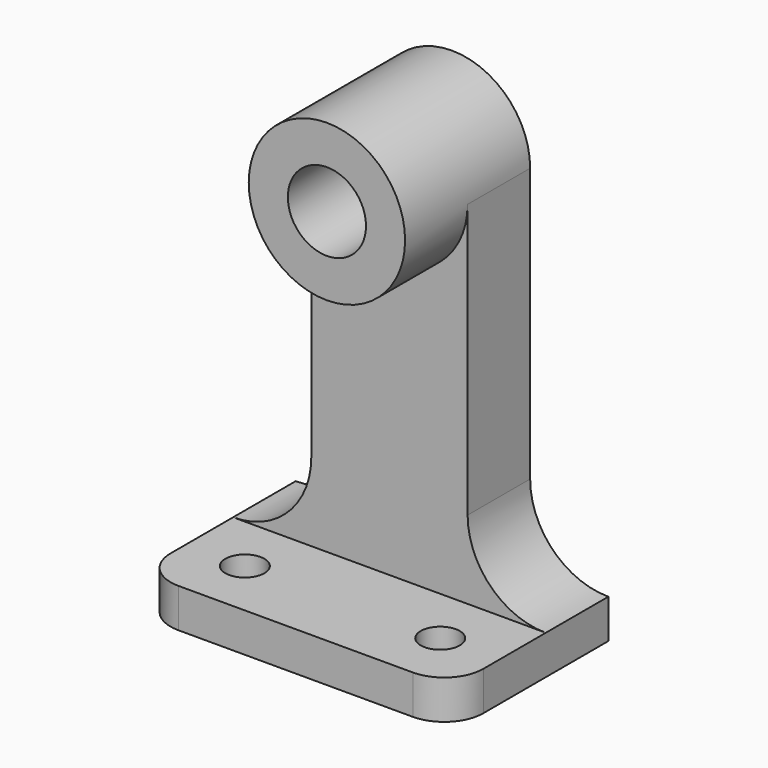
from build123d import *

# Parameters (mm, degrees)
F1_DEPTH  = 50.8
F2_W      = 12.7
F2_H      = 25.4
F3_DEPTH  = 69.85
F5_DEPTH  = 12.7
F6_DEPTH  = 25.4
F7_R      = 6.35
F8_DEPTH  = 25.4
F9_W      = 12.7
F9_H      = 12.7
F10_DEPTH = 12.7
F11_W     = 12.7
F11_H     = 12.7
F12_DEPTH = 12.7
F14_DEPTH = 25.4
F15_R     = 3.175
F16_DEPTH = 25.4
F18_DEPTH = 25.4


with BuildPart() as f1:
    # F0 (on Right) → F1 (new body)
    with BuildSketch(Plane.YZ):
        Polygon((-31.75, 0), (0, 0), (0, 76.2), (-25.4, 76.2), (-25.4, 50.8), (-12.7, 50.8), (-12.7, 6.35), (-31.75, 6.35), align=None)
    extrude(amount=F1_DEPTH)

    # F2 (on face) → F3 (cut)
    with BuildSketch(Plane.XY.offset(76.2)):
        with Locations((6.35, -12.7)):
            Rectangle(F2_W, F2_H)
        with Locations((44.45, -12.7)):
            Rectangle(F2_W, F2_H)
    extrude(amount=-F3_DEPTH, mode=Mode.SUBTRACT)

    # F4 (on face) → F5 (cut)
    with BuildSketch(Plane.XZ.offset(25.4)):
        with BuildLine():
            ThreePointArc((12.7, 63.5), (16.4197438789, 72.4802561211), (25.4, 76.2))
            Line((25.4, 76.2), (12.7, 76.2))
            Line((12.7, 76.2), (12.7, 63.5))
        make_face()
        with BuildLine():
            ThreePointArc((25.4, 76.2), (34.3802561211, 72.4802561211), (38.1, 63.5))
            Line((38.1, 63.5), (38.1, 76.2))
            Line((38.1, 76.2), (25.4, 76.2))
        make_face()
        with BuildLine():
            Line((12.7, 50.8), (25.4, 50.8))
            ThreePointArc((25.4, 50.8), (16.4197438789, 54.5197438789), (12.7, 63.5))
            Line((12.7, 63.5), (12.7, 50.8))
        make_face()
        with BuildLine():
            Line((38.1, 50.8), (38.1, 63.5))
            ThreePointArc((38.1, 63.5), (34.3802561211, 54.5197438789), (25.4, 50.8))
            Line((25.4, 50.8), (38.1, 50.8))
        make_face()
    extrude(amount=-F5_DEPTH, mode=Mode.SUBTRACT)

    # F6 (cut): faces of the model
    f6_faces = [f1.faces().sort_by_distance(p)[0] for p in [
        (15.5367728246, -12.7, 73.3632271754),
        (35.2632271754, -12.7, 73.3632271754),
    ]]
    extrude(f6_faces, amount=-F6_DEPTH, mode=Mode.SUBTRACT)

    # F7 (on face) → F8 (cut)
    with BuildSketch(Plane.XZ.offset(25.4)):
        with Locations((25.4, 63.5)):
            Circle(F7_R)
    extrude(amount=-F8_DEPTH, mode=Mode.SUBTRACT)

    # F9 (on face) → F10 (join)
    with BuildSketch(Plane(origin=(12.7, 0, 0), x_dir=(0, -1, 0), z_dir=(-1, 0, 0))):
        with Locations((6.35, 12.7)):
            Rectangle(F9_W, F9_H)
    extrude(amount=F10_DEPTH)

    # F11 (on face) → F12 (join)
    with BuildSketch(Plane.YZ.offset(38.1)):
        with Locations((-6.35, 12.7)):
            Rectangle(F11_W, F11_H)
    extrude(amount=F12_DEPTH)

    # F13 (on face) → F14 (cut)
    with BuildSketch(Plane.XZ.offset(12.7)):
        with BuildLine():
            ThreePointArc((0, 6.35), (8.9802561211, 10.0697438789), (12.7, 19.05))
            Line((12.7, 19.05), (0, 19.05))
            Line((0, 19.05), (0, 6.35))
        make_face()
        with BuildLine():
            ThreePointArc((38.1, 19.05), (41.8197438789, 10.0697438789), (50.8, 6.35))
            Line((50.8, 6.35), (50.8, 19.05))
            Line((50.8, 19.05), (38.1, 19.05))
        make_face()
    extrude(amount=-F14_DEPTH, mode=Mode.SUBTRACT)

    # F15 (on face) → F16 (cut)
    with BuildSketch(Plane.XY.offset(6.35)):
        with Locations((9.525, -22.225)):
            Circle(F15_R)
        with Locations((41.275, -22.225)):
            Circle(F15_R)
    extrude(amount=-F16_DEPTH, mode=Mode.SUBTRACT)

    # F17 (on face) → F18 (cut)
    with BuildSketch(Plane.XY.offset(6.35)):
        with BuildLine():
            Line((0, -31.75), (6.35, -31.75))
            ThreePointArc((6.35, -31.75), (1.8598719395, -29.8901280605), (0, -25.4))
            Line((0, -25.4), (0, -31.75))
        make_face()
        with BuildLine():
            ThreePointArc((50.8, -25.4), (48.9401280605, -29.8901280605), (44.45, -31.75))
            Line((44.45, -31.75), (50.8, -31.75))
            Line((50.8, -31.75), (50.8, -25.4))
        make_face()
    extrude(amount=-F18_DEPTH, mode=Mode.SUBTRACT)


solid = f1.part
